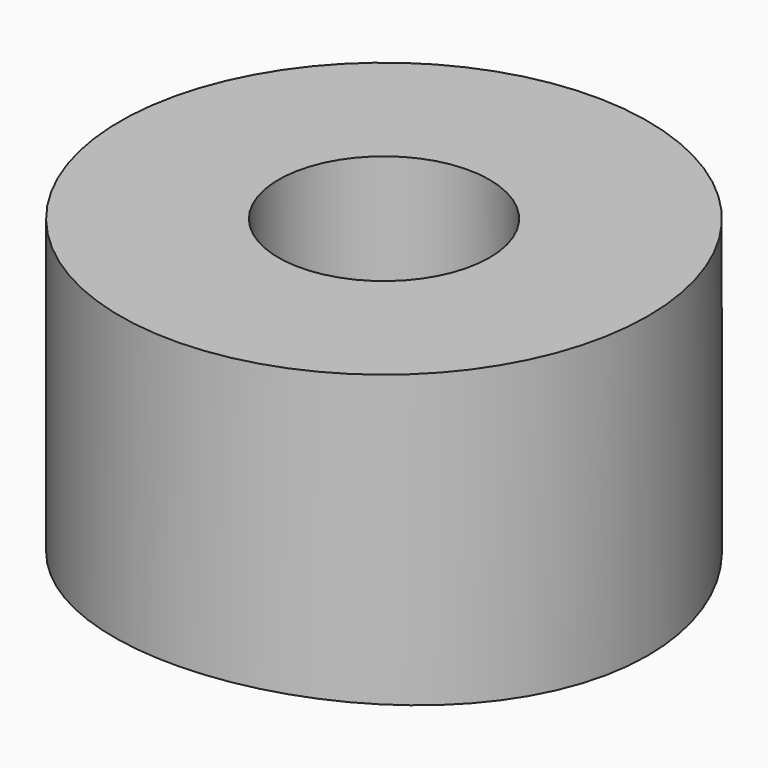
from build123d import *

# Parameters (mm, degrees)
CYLINDER003_R          = 48
CYLINDER003_DEPTH      = 245
CYLINDER003_ROLL_ANGLE = 90
CYLINDER001_R          = 2
CYLINDER001_DEPTH      = 6.4
CYLINDER_R             = 5
CYLINDER_DEPTH         = 6.4


with BuildPart() as cilindro:
    # Cylinder003 → Cylinder003 (new body)
    with BuildSketch(Plane.XY):
        Circle(CYLINDER003_R)
    extrude(amount=CYLINDER003_DEPTH)


with BuildPart() as cilindro_1:
    # Cylinder003 roll: moved
    add(cilindro.part.rotate(Axis((0, 0, 0), (1, 0, 0)), CYLINDER003_ROLL_ANGLE))


with BuildPart() as cilindro_2:
    # Cylinder003 placement: moved
    add(cilindro_1.part.moved(Location((0, 79, -47))))


with BuildPart() as bumper_taladro:
    # Cylinder001 → Cylinder001 (new body)
    with BuildSketch(Plane.XY):
        Circle(CYLINDER001_R)
    extrude(amount=CYLINDER001_DEPTH)


with BuildPart() as bumper_para_m2_temporal:
    # Cylinder → Cylinder (new body)
    with BuildSketch(Plane.XY):
        Circle(CYLINDER_R)
    extrude(amount=CYLINDER_DEPTH)

    # Cut: cut Bumper taladro
    add(bumper_taladro.part, mode=Mode.SUBTRACT)

    # Cut001: cut Cilindro
    add(cilindro_2.part, mode=Mode.SUBTRACT)


solid = bumper_para_m2_temporal.part
